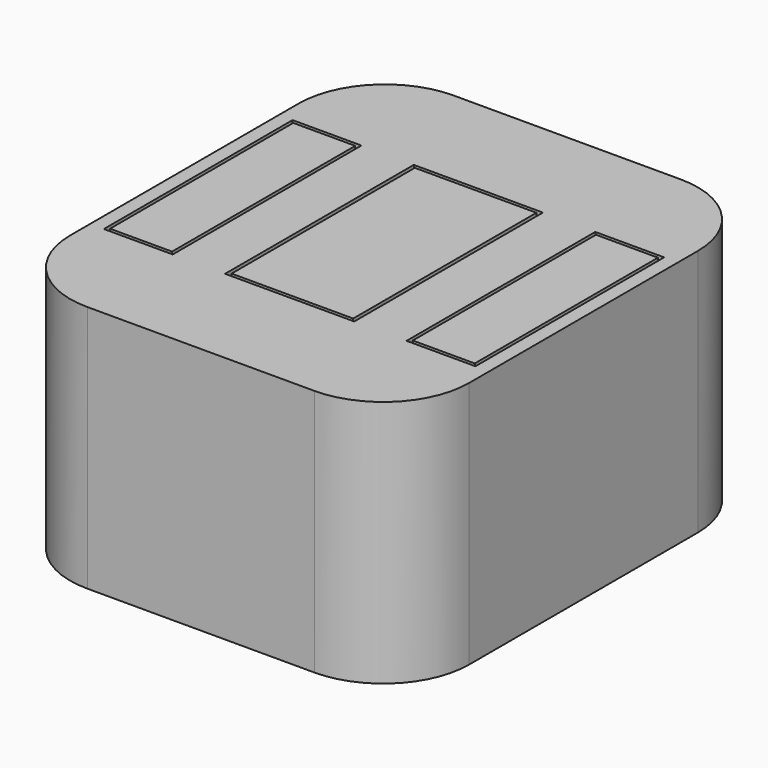
from build123d import *

# Parameters (mm, degrees)
F0_W     = 18
F0_H     = 66.5
F1_DEPTH = 53
F0_W_2   = 35.31
F0_W_3   = 0.25
F0_W_4   = 16.95
F2_DEPTH = 25
F3_DEPTH = 18
F4_W     = 37.51
F4_H     = 68.5
F5_DEPTH = 25
F6_DEPTH = 72


with BuildPart() as f1:
    # F0 (on Top) → F1 (new body)
    with BuildSketch(Plane.XY):
        with Locations((43.955, 0)):
            Rectangle(F0_W, F0_H)
    extrude(amount=F1_DEPTH)



with BuildPart() as f1b:
    # F0 (on Top) → F1, piece 2 (new body)
    with BuildSketch(Plane.XY):
        with Locations((-43.955, 0)):
            Rectangle(F0_W, F0_H)
    extrude(amount=F1_DEPTH)


with BuildPart() as f1c:
    # F0 (on Top) → F1, piece 3 (new body)
    with BuildSketch(Plane.XY):
        Rectangle(F0_W_2, F0_H)
    extrude(amount=F1_DEPTH)

    # F0 (on Top) → F3 (join)
    with BuildSketch(Plane.XY):
        Rectangle(F0_W_2, F0_H)
    extrude(amount=-F3_DEPTH)


with BuildPart() as f1_1:
    add(f1.part)

    add(f1b.part)  # F2 merges F1b
    # F0 (on Top) → F2 (join)
    with BuildSketch(Plane.XY):
        with Locations((43.955, 0)):
            Rectangle(F0_W, F0_H)
        with Locations((34.83, 0)):
            Rectangle(F0_W_3, F0_H)
        with BuildLine():
            Line((17.755, 33.25), (34.705, 33.25))
            Line((34.705, 33.25), (34.705, 41.5))
            ThreePointArc((34.705, 41.5), (28.8471356237, 55.6421356237), (14.705, 61.5))
            Line((14.705, 61.5), (-14.705, 61.5))
            ThreePointArc((-14.705, 61.5), (-28.8471356237, 55.6421356237), (-34.705, 41.5))
            Line((-34.705, 41.5), (-34.705, 33.25))
            Line((-34.705, 33.25), (-17.755, 33.25))
            Line((-17.755, 33.25), (-17.755, 37.4482907355))
            Line((-17.755, 37.4482907355), (17.755, 37.4482907355))
            Line((17.755, 37.4482907355), (17.755, 33.25))
        make_face()
        with Locations((26.23, 0)):
            Rectangle(F0_W_4, F0_H)
        with BuildLine():
            Line((34.705, -41.5), (34.705, -33.25))
            Line((34.705, -33.25), (17.755, -33.25))
            Line((17.755, -33.25), (17.755, -37.4482907355))
            Line((17.755, -37.4482907355), (-17.755, -37.4482907355))
            Line((-17.755, -37.4482907355), (-17.755, -33.25))
            Line((-17.755, -33.25), (-34.705, -33.25))
            Line((-34.705, -33.25), (-34.705, -41.5))
            ThreePointArc((-34.705, -41.5), (-28.8471356237, -55.6421356237), (-14.705, -61.5))
            Line((-14.705, -61.5), (14.705, -61.5))
            ThreePointArc((14.705, -61.5), (28.8471356237, -55.6421356237), (34.705, -41.5))
        make_face()
        with Locations((-26.23, 0)):
            Rectangle(F0_W_4, F0_H)
        with Locations((-34.83, 0)):
            Rectangle(F0_W_3, F0_H)
        with Locations((-43.955, 0)):
            Rectangle(F0_W, F0_H)
    extrude(amount=F2_DEPTH)

    # F0 (on Top) → F3, piece 2 (join)
    with BuildSketch(Plane.XY):
        with Locations((26.23, 0)):
            Rectangle(F0_W_4, F0_H)
        with Locations((43.955, 0)):
            Rectangle(F0_W, F0_H)
        with Locations((-26.23, 0)):
            Rectangle(F0_W_4, F0_H)
        with Locations((-43.955, 0)):
            Rectangle(F0_W, F0_H)
    extrude(amount=-F3_DEPTH)


with BuildPart() as f5:
    # F4 (on face) → F5 (new body)
    with BuildSketch(Plane.XY.offset(53)):
        with BuildLine():
            Line((32.955, 66.5), (-32.955, 66.5))
            ThreePointArc((-32.955, 66.5), (-50.6326695297, 59.1776695297), (-57.955, 41.5))
            Line((-57.955, 41.5), (-57.955, -41.5))
            ThreePointArc((-57.955, -41.5), (-50.6326695297, -59.1776695297), (-32.955, -66.5))
            Line((-32.955, -66.5), (32.955, -66.5))
            ThreePointArc((32.955, -66.5), (50.6326695297, -59.1776695297), (57.955, -41.5))
            Line((57.955, -41.5), (57.955, 41.5))
            ThreePointArc((57.955, 41.5), (50.6326695297, 59.1776695297), (32.955, 66.5))
        make_face()
        with BuildLine():
            Line((-53.955, -34.25), (-53.955, 34.25))
            Line((-53.955, 34.25), (-35.705, 34.25))
            Line((-35.705, 34.25), (-35.705, 41.5))
            ThreePointArc((-35.705, 41.5), (-29.5542424049, 56.3492424049), (-14.705, 62.5))
            Line((-14.705, 62.5), (14.705, 62.5))
            ThreePointArc((14.705, 62.5), (29.5542424049, 56.3492424049), (35.705, 41.5))
            Line((35.705, 41.5), (35.705, 34.25))
            Line((35.705, 34.25), (53.955, 34.25))
            Line((53.955, 34.25), (53.955, -34.25))
            Line((53.955, -34.25), (35.705, -34.25))
            Line((35.705, -34.25), (35.705, -41.5))
            ThreePointArc((35.705, -41.5), (29.5542424049, -56.3492424049), (14.705, -62.5))
            Line((14.705, -62.5), (-14.705, -62.5))
            ThreePointArc((-14.705, -62.5), (-29.5542424049, -56.3492424049), (-35.705, -41.5))
            Line((-35.705, -41.5), (-35.705, -34.25))
            Line((-35.705, -34.25), (-53.955, -34.25))
        make_face(mode=Mode.SUBTRACT)
        with BuildLine():
            Line((-35.705, 41.5), (-35.705, 34.25))
            Line((-35.705, 34.25), (-33.955, 34.25))
            Line((-33.955, 34.25), (-33.955, -34.25))
            Line((-33.955, -34.25), (-35.705, -34.25))
            Line((-35.705, -34.25), (-35.705, -41.5))
            ThreePointArc((-35.705, -41.5), (-29.5542424049, -56.3492424049), (-14.705, -62.5))
            Line((-14.705, -62.5), (14.705, -62.5))
            ThreePointArc((14.705, -62.5), (29.5542424049, -56.3492424049), (35.705, -41.5))
            Line((35.705, -41.5), (35.705, -34.25))
            Line((35.705, -34.25), (33.955, -34.25))
            Line((33.955, -34.25), (33.955, 34.25))
            Line((33.955, 34.25), (35.705, 34.25))
            Line((35.705, 34.25), (35.705, 41.5))
            ThreePointArc((35.705, 41.5), (29.5542424049, 56.3492424049), (14.705, 62.5))
            Line((14.705, 62.5), (-14.705, 62.5))
            ThreePointArc((-14.705, 62.5), (-29.5542424049, 56.3492424049), (-35.705, 41.5))
        make_face()
        Rectangle(F4_W, F4_H, mode=Mode.SUBTRACT)
    extrude(amount=-F5_DEPTH)

    # F4 (on face) → F6 (join)
    with BuildSketch(Plane.XY.offset(53)):
        with BuildLine():
            Line((32.955, 66.5), (-32.955, 66.5))
            ThreePointArc((-32.955, 66.5), (-50.6326695297, 59.1776695297), (-57.955, 41.5))
            Line((-57.955, 41.5), (-57.955, -41.5))
            ThreePointArc((-57.955, -41.5), (-50.6326695297, -59.1776695297), (-32.955, -66.5))
            Line((-32.955, -66.5), (32.955, -66.5))
            ThreePointArc((32.955, -66.5), (50.6326695297, -59.1776695297), (57.955, -41.5))
            Line((57.955, -41.5), (57.955, 41.5))
            ThreePointArc((57.955, 41.5), (50.6326695297, 59.1776695297), (32.955, 66.5))
        make_face()
        with BuildLine():
            Line((-53.955, -34.25), (-53.955, 34.25))
            Line((-53.955, 34.25), (-35.705, 34.25))
            Line((-35.705, 34.25), (-35.705, 41.5))
            ThreePointArc((-35.705, 41.5), (-29.5542424049, 56.3492424049), (-14.705, 62.5))
            Line((-14.705, 62.5), (14.705, 62.5))
            ThreePointArc((14.705, 62.5), (29.5542424049, 56.3492424049), (35.705, 41.5))
            Line((35.705, 41.5), (35.705, 34.25))
            Line((35.705, 34.25), (53.955, 34.25))
            Line((53.955, 34.25), (53.955, -34.25))
            Line((53.955, -34.25), (35.705, -34.25))
            Line((35.705, -34.25), (35.705, -41.5))
            ThreePointArc((35.705, -41.5), (29.5542424049, -56.3492424049), (14.705, -62.5))
            Line((14.705, -62.5), (-14.705, -62.5))
            ThreePointArc((-14.705, -62.5), (-29.5542424049, -56.3492424049), (-35.705, -41.5))
            Line((-35.705, -41.5), (-35.705, -34.25))
            Line((-35.705, -34.25), (-53.955, -34.25))
        make_face(mode=Mode.SUBTRACT)
    extrude(amount=-F6_DEPTH)


with BuildPart() as f7_1:
    # F7: copy of F5
    add(f5.part)


solid = Compound([f1c.part, f1_1.part, f5.part, f7_1.part])
